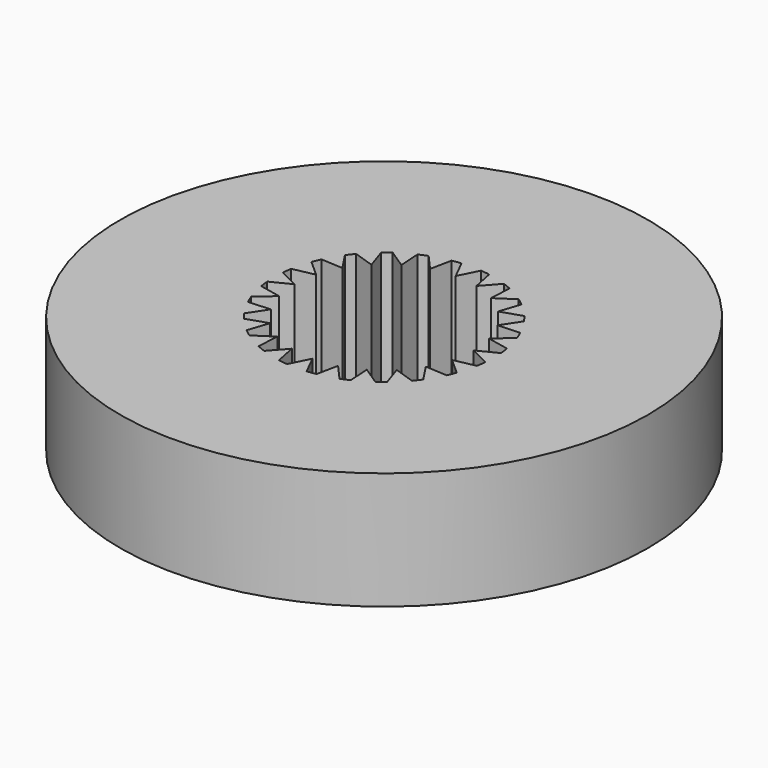
from build123d import *

# Parameters (mm, degrees)
F0_R     = 6.75
F1_DEPTH = 3
F2_COUNT = 24


with BuildPart() as f1:
    # F0 (on Top) → F1 (new body)
    with BuildSketch(Plane.XY):
        Circle(F0_R)
        with BuildLine():
            ThreePointArc((0.25, 2.788817), (2.066398, 1.889444), (2.8, 0))
            ThreePointArc((2.8, 0), (-1.889444, -2.066398), (-0.25, 2.788817))
            Line((-0.25, 2.788817), (-0.25, 3.288817))
            Line((-0.25, 3.288817), (0.25, 3.288817))
            Line((0.25, 3.288817), (0.25, 2.788817))
        make_face(mode=Mode.SUBTRACT)
        with BuildLine():
            ThreePointArc((-0.25, 2.788817), (0, 2.8), (0.25, 2.788817))
            Line((0.25, 2.788817), (0.25, 3.288817))
            Line((0.25, 3.288817), (-0.25, 3.288817))
            Line((-0.25, 3.288817), (-0.25, 2.788817))
        make_face()
        Polygon((0, 2.288817), (0.25, 2.788817), (-0.25, 2.788817), align=None)
        with BuildLine():
            Line((-0.25, 2.788817), (0.25, 2.788817))
            ThreePointArc((0.25, 2.788817), (0, 2.8), (-0.25, 2.788817))
        make_face()
    extrude(amount=F1_DEPTH)

    # F2: F1 ×24 about axis
    f2_axis = Axis((0, 0, 0), (0, 0, -1))


with BuildPart() as f1_1:
    add(f1.part)
    for i in range(1, F2_COUNT):
        add(f1.part.rotate(f2_axis, i * 360 / F2_COUNT))


solid = f1_1.part
